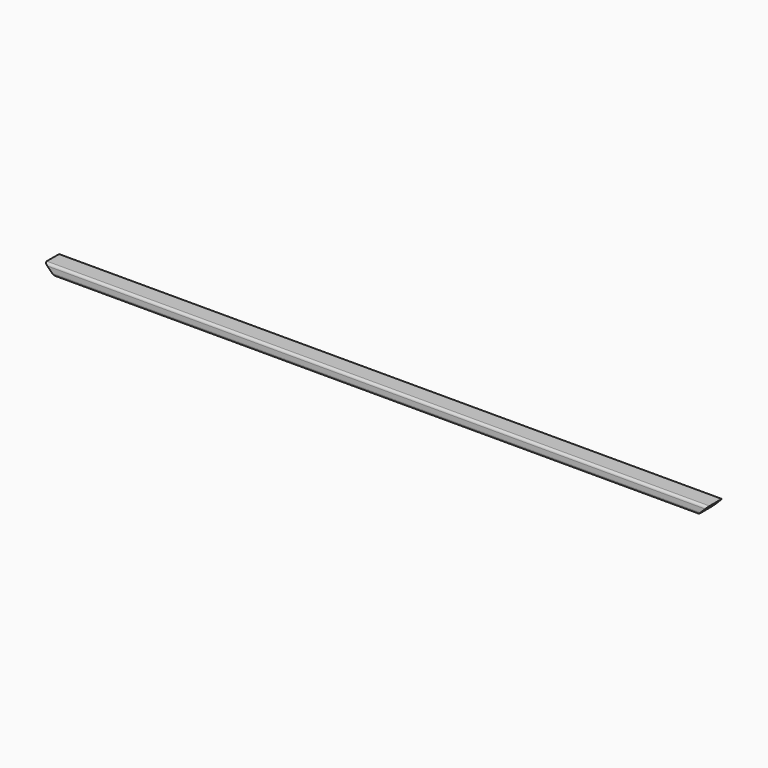
from build123d import *

# Parameters (mm, degrees)
F1_DEPTH      = 431.8
F3_DEPTH      = 12.701
F3_DEPTH_BACK = 12.701


with BuildPart() as f1:
    # F0 (on Right) → F1 (new body, symmetric)
    with BuildSketch(Plane.YZ):
        with BuildLine():
            Line((-12.7, 3.175), (-12.7, -3.175))
            ThreePointArc((-12.7, -3.175), (-11.7700640303, -5.4200640303), (-9.525, -6.35))
            Line((-9.525, -6.35), (9.525, -6.35))
            ThreePointArc((9.525, -6.35), (11.7700640303, -5.4200640303), (12.7, -3.175))
            Line((12.7, -3.175), (12.7, 3.175))
            ThreePointArc((12.7, 3.175), (11.7700640303, 5.4200640303), (9.525, 6.35))
            Line((9.525, 6.35), (-9.525, 6.35))
            ThreePointArc((-9.525, 6.35), (-11.7700640303, 5.4200640303), (-12.7, 3.175))
        make_face()
        with BuildLine():
            ThreePointArc((-11.049, 3.175), (-10.6026307345, 4.2526307345), (-9.525, 4.699))
            Line((-9.525, 4.699), (9.525, 4.699))
            ThreePointArc((9.525, 4.699), (10.6026307345, 4.2526307345), (11.049, 3.175))
            Line((11.049, 3.175), (11.049, -3.175))
            ThreePointArc((11.049, -3.175), (10.6026307345, -4.2526307345), (9.525, -4.699))
            Line((9.525, -4.699), (-9.525, -4.699))
            ThreePointArc((-9.525, -4.699), (-10.6026307345, -4.2526307345), (-11.049, -3.175))
            Line((-11.049, -3.175), (-11.049, 3.175))
        make_face(mode=Mode.SUBTRACT)
    extrude(amount=F1_DEPTH, both=True)

    # F2 (on Front) → F3 (cut, two sides)
    with BuildSketch(Plane.XZ) as f3_sk:
        Polygon((-431.8, 6.35), (-431.8, -6.35), (-419.1, -6.35), align=None)
        Polygon((419.1, -6.35), (431.8, -6.35), (431.8, 6.35), align=None)
    extrude(amount=-F3_DEPTH, mode=Mode.SUBTRACT)
    extrude(f3_sk.sketch, amount=F3_DEPTH_BACK, mode=Mode.SUBTRACT)


solid = f1.part
